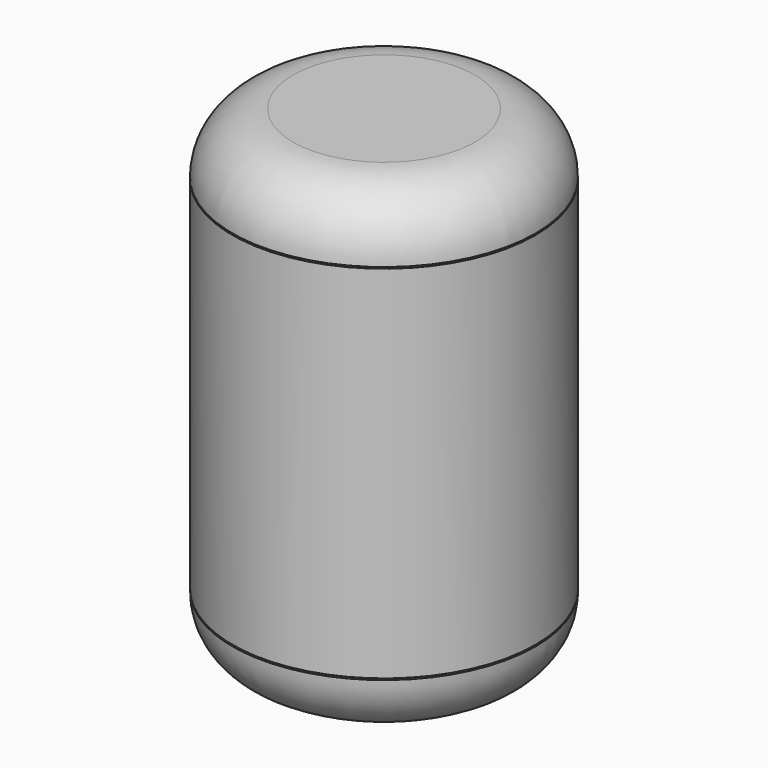
from build123d import *

# Parameters (mm, degrees)
F6_W = 1
F6_H = 28


with BuildPart() as f1:
    # F0 (on Front) → F1 (revolve)
    with BuildSketch(Plane.XZ):
        with BuildLine():
            Line((-15, 0), (0, 0))
            Line((0, 0), (0, 10))
            Line((0, 10), (-25, 10))
            ThreePointArc((-25, 10), (-22.0710678119, 2.9289321881), (-15, 0))
        make_face()
    revolve(axis=Axis((0, 0, 5), (0, 0, 1)))


with BuildPart() as f3:
    # F2 (on Front) → F3 (revolve)
    with BuildSketch(Plane.XZ):
        Polygon((-25, 12.2536424099), (-25, 10.2536424099), (-19, 10.2536424099), (-19, 12.2536424099), (-21, 12.2536424099), (-20.9687486861, 11.2223923206), (-23, 11.2223923206), (-23, 12.2536424099), align=None)
    revolve(axis=Axis((0, 0, 2.7502607554), (0, 0, -1)))

    # F6 (on Front) → F7 (revolve)
    with BuildSketch(Plane.XZ):
        with Locations((-24.5, 26)):
            Rectangle(F6_W, F6_H)
    revolve(axis=Axis((0, 0, 2.59780325), (0, 0, -1)))

    # F9: F3 across face


with BuildPart() as f5:
    # F4 (on Front) → F5 (revolve)
    with BuildSketch(Plane.XZ):
        Polygon((-18.9999454135, 12.5121731708), (-18.9999454135, 10.5121731708), (0, 10.4666288788), (0, 13.9666288788), (-12.4379924331, 13.9666288788), align=None)
    revolve(axis=Axis((0, 0, 12.2166288788), (0, 0, -1)))


with BuildPart() as f8_1:
    # F8: instance of F5
    add(f5.part.mirror(Plane.XY.offset(40)))


with BuildPart() as f8_2:
    # F8: instance of F1
    add(f1.part.mirror(Plane.XY.offset(40)))


with BuildPart() as f3_1:
    add(f3.part)
    add(f3.part.mirror(Plane.XY.offset(40)))


with BuildPart() as f11:
    # F10 (on Front) → F11 (revolve)
    with BuildSketch(Plane.XZ):
        with BuildLine():
            Line((0, 60.3190772235), (0, 18.1019715965))
            add(Edge.make_bspline(
                [(0, 18.1019715965), (16.3777932577, 18.1019715965), (16.3777932577, 39.21052441), (16.3777932577, 60.3190772235), (0, 60.3190772235)],
                knots=[0, 0, 0, 1.5707963268, 1.5707963268, 3.1415926536, 3.1415926536, 3.1415926536], degree=2, weights=[1, 0.7071067812, 1, 0.7071067812, 1]))
        make_face()
    revolve(axis=Axis((0, 0, 39.21052441), (0, 0, -1)))


solid = Compound([f1.part, f5.part, f8_1.part, f8_2.part, f3_1.part, f11.part])
